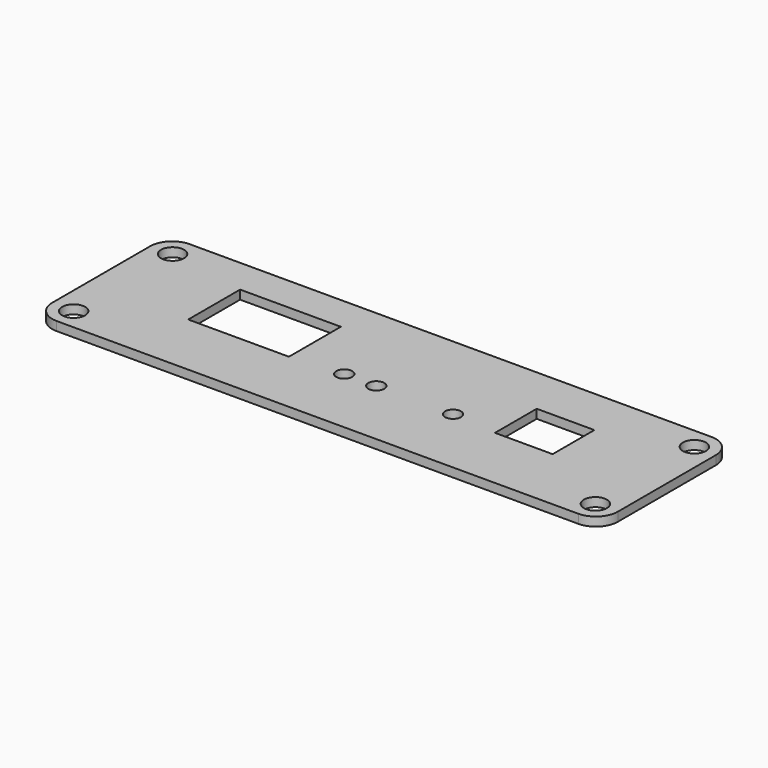
from build123d import *

# Parameters (mm, degrees)
SKETCH_W        = 103
SKETCH_H        = 30.3
PAD_DEPTH       = 1.62
SKETCH001_R     = 2.1
POCKET_DEPTH    = 5
SKETCH002_R     = 1.45
SKETCH002_W     = 18.34
SKETCH002_H     = 11.81
SKETCH002_W_2   = 10.5
SKETCH002_H_2   = 9.5
POCKET001_DEPTH = 5
FILLET_R        = 4


with BuildPart() as part:
    # Sketch → Pad (new body)
    with BuildSketch(Plane.XY):
        Rectangle(SKETCH_W, SKETCH_H)
    extrude(amount=PAD_DEPTH)

    # Sketch001 → Pocket (cut)
    with BuildSketch(Plane.XY.offset(1.62)):
        with Locations((-47.51, 11.26)):
            Circle(SKETCH001_R)
        with Locations((47.51, 11.26)):
            Circle(SKETCH001_R)
        with Locations((-47.51, -11.26)):
            Circle(SKETCH001_R)
        with Locations((47.51, -11.26)):
            Circle(SKETCH001_R)
    extrude(amount=-POCKET_DEPTH, mode=Mode.SUBTRACT)

    # Sketch002 → Pocket001 (cut)
    with BuildSketch(Plane.XY.offset(1.62)):
        with Locations((-5.364, -2.35)):
            Circle(SKETCH002_R)
        with Locations((0.478, -2.35)):
            Circle(SKETCH002_R)
        with Locations((14.448, -2.35)):
            Circle(SKETCH002_R)
        with Locations((-24.003, 2.805)):
            Rectangle(SKETCH002_W, SKETCH002_H)
        with Locations((27.94, 1.65)):
            Rectangle(SKETCH002_W_2, SKETCH002_H_2)
    extrude(amount=-POCKET001_DEPTH, mode=Mode.SUBTRACT)

    # Fillet
    fillet_edges = [part.edges().sort_by_distance(p)[0] for p in [
        (-51.5, -15.15, 0.81),
        (-51.5, 15.15, 0.81),
        (51.5, -15.15, 0.81),
        (51.5, 15.15, 0.81),
    ]]
    fillet(fillet_edges, radius=FILLET_R)


solid = part.part
